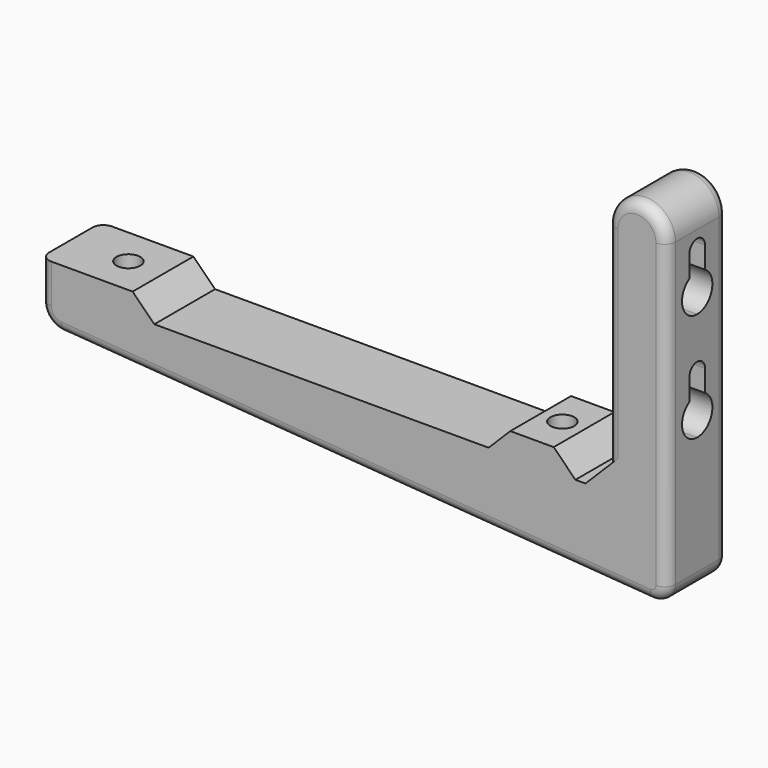
from build123d import *

# Parameters (mm, degrees)
CYLINDER007_R             = 2.2
CYLINDER007_DEPTH         = 50
EXTRUDE007_DEPTH          = 10
EXTRUDE006_DEPTH          = 10
CYLINDER009_R             = 3.5
CYLINDER009_DEPTH         = 12.5
FUSION010_PLACEMENT_ANGLE = 90
ARRAY006_Z_COUNT          = 2
ARRAY006_Z_PITCH          = 20
EXTRUDE005_DEPTH          = 7
FILLET_R                  = 2


with BuildPart() as bolt_hole001:
    # Cylinder007 → Cylinder007 (new body)
    with BuildSketch(Plane(origin=(40, 0, -50), x_dir=(1, 0, 0), z_dir=(0, 0, 1))):
        Circle(CYLINDER007_R)
    extrude(amount=CYLINDER007_DEPTH)


with BuildPart() as screw_top_hole_sketch_extrude:
    # Sketch007 → Extrude007 (new body)
    with BuildSketch(Plane.XY):
        with BuildLine():
            Line((0, 3.5), (7, 3.5))
            ThreePointArc((7, -3.5), (10.5, 0), (7, 3.5))
            Line((0, -3.5), (7, -3.5))
            ThreePointArc((0, 3.5), (-3.5, 0), (0, -3.5))
        make_face()
    extrude(amount=-EXTRUDE007_DEPTH)


with BuildPart() as screw_hole_sketch_extrude:
    # Sketch008 → Extrude006 (new body)
    with BuildSketch(Plane.XY.offset(2.5)):
        with BuildLine():
            Line((0, 1.8), (7, 1.8))
            ThreePointArc((7, -1.8), (8.8, 0), (7, 1.8))
            Line((0, -1.8), (7, -1.8))
            ThreePointArc((0, 1.8), (-1.8, 0), (0, -1.8))
        make_face()
    extrude(amount=EXTRUDE006_DEPTH)


with BuildPart() as loft_body:
    # Sketch007 → Loft section 0
    with BuildSketch(Plane.XY):
        with BuildLine():
            Line((0, 3.5), (7, 3.5))
            ThreePointArc((7, -3.5), (10.5, 0), (7, 3.5))
            Line((0, -3.5), (7, -3.5))
            ThreePointArc((0, 3.5), (-3.5, 0), (0, -3.5))
        make_face()
    # Sketch008 → Loft section 1
    with BuildSketch(Plane.XY.offset(2.5)):
        with BuildLine():
            Line((0, 1.8), (7, 1.8))
            ThreePointArc((7, -1.8), (8.8, 0), (7, 1.8))
            Line((0, -1.8), (7, -1.8))
            ThreePointArc((0, 1.8), (-1.8, 0), (0, -1.8))
        make_face()
    loft(ruled=True)


with BuildPart() as screw_hole_array:
    # Cylinder009 → Cylinder009 (new body)
    with BuildSketch(Plane(origin=(7, 0, 0), x_dir=(1, 0, 0), z_dir=(0, 0, 1))):
        Circle(CYLINDER009_R)
    extrude(amount=CYLINDER009_DEPTH)

    # Fusion010: union screw top hole sketch extrude, screw hole sketch extrude, Loft body
    add(screw_top_hole_sketch_extrude.part)
    add(screw_hole_sketch_extrude.part)
    add(loft_body.part)


with BuildPart() as screw_hole_array_1:
    # Fusion010 placement: moved
    add(screw_hole_array.part.moved(Location((58, 0, 16))).rotate(Axis((58, 0, 16), (0, 1, 0)), FUSION010_PLACEMENT_ANGLE))

    # Array006 Z: screw hole array ×2


with BuildPart() as screw_hole_array_2:
    add(screw_hole_array_1.part)
    with Locations(*[(0, 0, i * ARRAY006_Z_PITCH) for i in range(1, ARRAY006_Z_COUNT)]):
        add(screw_hole_array_1.part)


with BuildPart() as hand_hole_fusion:
    # Part__Mirroring: instance of bolt hole001
    add(bolt_hole001.part.mirror(Plane(origin=(0, 0, 0), x_dir=(0, -1, 0), z_dir=(1, 0, 0))))

    # Fusion009: union bolt hole001, screw hole array
    add(bolt_hole001.part)
    add(screw_hole_array_2.part)


with BuildPart() as hand_cut:
    # Sketch006 → Extrude005 (new body, symmetric)
    with BuildSketch(Plane.XZ):
        with BuildLine():
            Line((-50.62624, 0), (-50.62624, -7.188247))
            ThreePointArc((-50.62624, -7.188247), (-49.551894, -9.924507), (-46.902857, -11.198844))
            Line((-46.902857, -11.198844), (61.663862, -19.273572))
            ThreePointArc((61.663862, -19.273572), (63.902574, -18.489156), (64.850876, -16.314792))
            Line((64.850876, -16.314792), (64.850876, 39.259367))
            ThreePointArc((64.850876, 39.259367), (59.350876, 44.759367), (53.850876, 39.259367))
            Line((53.850876, 39.259367), (53.850876, 0))
            Line((49.850876, -4), (53.850876, 0))
            Line((47.999662, -4), (49.850876, -4))
            Line((43.999662, 0), (47.999662, -4))
            Line((43.999662, 0), (35.999662, 0))
            Line((35.999662, 0), (31.999662, -4))
            Line((31.999662, -4), (-29.62624, -4))
            Line((-29.62624, -4), (-33.62624, 0))
            Line((-33.62624, 0), (-50.62624, 0))
        make_face()
    extrude(amount=EXTRUDE005_DEPTH, both=True)

    # Fillet
    fillet_edges = [hand_cut.edges().sort_by_distance(p)[0] for p in [
        (7.380503, 7, -15.236208),
        (7.380503, -7, -15.236208),
    ]]
    fillet(fillet_edges, radius=FILLET_R)

    # Cut011: cut hand hole fusion
    add(hand_hole_fusion.part, mode=Mode.SUBTRACT)


solid = hand_cut.part
